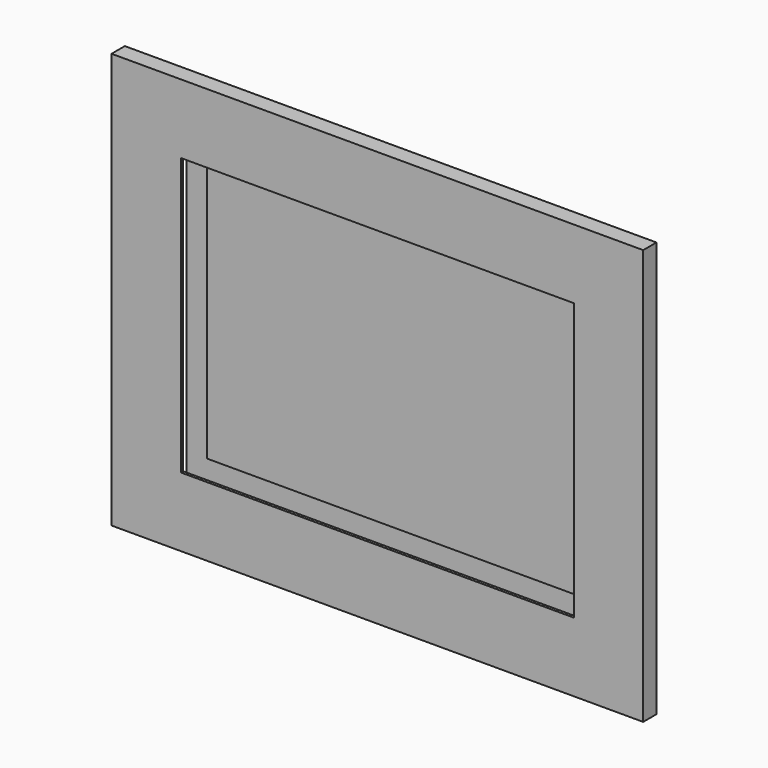
from build123d import *

# Parameters (mm, degrees)
SKETCH_W           = 153
SKETCH_H           = 117
PAD_DEPTH          = 5
SKETCH001_W        = 153.1
SKETCH001_H        = 117.2
SKETCH001_W_2      = 140.9
SKETCH001_H_2      = 104.16
POCKET_DEPTH       = 0.7
SKETCH002_W        = 192
SKETCH002_H        = 150
SKETCH002_W_2      = 142
SKETCH002_H_2      = 100
PAD001_DEPTH       = 6
SKETCH003_W        = 156
SKETCH003_H        = 119
POCKET001_DEPTH    = 5
SKETCH004_W        = 14
SKETCH004_H        = 15
POCKET002_DEPTH    = 5
SKETCH005_W        = 40
SKETCH005_H        = 5
PAD002_DEPTH       = 5
PAD002_FACE9_W     = 40
PAD002_FACE9_H     = 4.62
POCKET003_DEPTH    = 1
POCKET003_FACE29_W = 5
POCKET003_FACE29_H = 40
POCKET004_DEPTH    = 5


with BuildPart() as lcd_screen:
    # Sketch → Pad (new body)
    with BuildSketch(Plane.XZ):
        Rectangle(SKETCH_W, SKETCH_H)
    extrude(amount=PAD_DEPTH)

    # Sketch001 (on Face6 of Pad) → Pocket (cut)
    with BuildSketch(Plane.XZ.offset(5)):
        with Locations((0, 0.172374)):
            Rectangle(SKETCH001_W, SKETCH001_H)
        with Locations((1.9, 3.052374)):
            Rectangle(SKETCH001_W_2, SKETCH001_H_2, mode=Mode.SUBTRACT)
    extrude(amount=-POCKET_DEPTH, mode=Mode.SUBTRACT)


with BuildPart() as lcd_screen_1:
    # Body placement: moved
    add(lcd_screen.part.moved(Location((0, 10, 0))))


with BuildPart() as bezel:
    # Sketch002 → Pad001 (new body)
    with BuildSketch(Plane.XZ):
        with Locations((1.856875, 0.802246)):
            Rectangle(SKETCH002_W, SKETCH002_H)
        with Locations((1.856875, 0.802246)):
            Rectangle(SKETCH002_W_2, SKETCH002_H_2, mode=Mode.SUBTRACT)
    extrude(amount=PAD001_DEPTH)

    # Sketch003 (on Face9 of Pad001) → Pocket001 (cut)
    with BuildSketch(Plane(origin=(0, 0, 0), x_dir=(1, 0, 0), z_dir=(0, 1, 0))):
        with Locations((0.66, -1)):
            Rectangle(SKETCH003_W, SKETCH003_H)
    extrude(amount=-POCKET001_DEPTH, mode=Mode.SUBTRACT)

    # Sketch004 (on Face4 of Pocket001) → Pocket002 (cut)
    with BuildSketch(Plane(origin=(0, 0, 0), x_dir=(1, 0, 0), z_dir=(0, 1, 0))):
        with Locations((-76.064757, 50.486997)):
            Rectangle(SKETCH004_W, SKETCH004_H)
    extrude(amount=-POCKET002_DEPTH, mode=Mode.SUBTRACT)

    # Sketch005 → Pad002 (join)
    with BuildSketch(Plane.XZ):
        with Locations((-35.2602, -60.62)):
            Rectangle(SKETCH005_W, SKETCH005_H)
    extrude(amount=PAD002_DEPTH)

    # Pad002 Face9 → Pocket003 (cut)
    with BuildSketch(Plane(origin=(-35.2602, 0, -60.81), x_dir=(1, 0, 0), z_dir=(0, 1, 0))):
        Rectangle(PAD002_FACE9_W, PAD002_FACE9_H)
    extrude(amount=-POCKET003_DEPTH, mode=Mode.SUBTRACT)

    # Pocket003 Face29 → Pocket004 (cut)
    with BuildSketch(Plane(origin=(-35.2602, -2.5, -58.12), x_dir=(0, 1, 0), z_dir=(0, 0, 1))):
        Rectangle(POCKET003_FACE29_W, POCKET003_FACE29_H)
    extrude(amount=-POCKET004_DEPTH, mode=Mode.SUBTRACT)


solid = Compound([lcd_screen_1.part, bezel.part])
